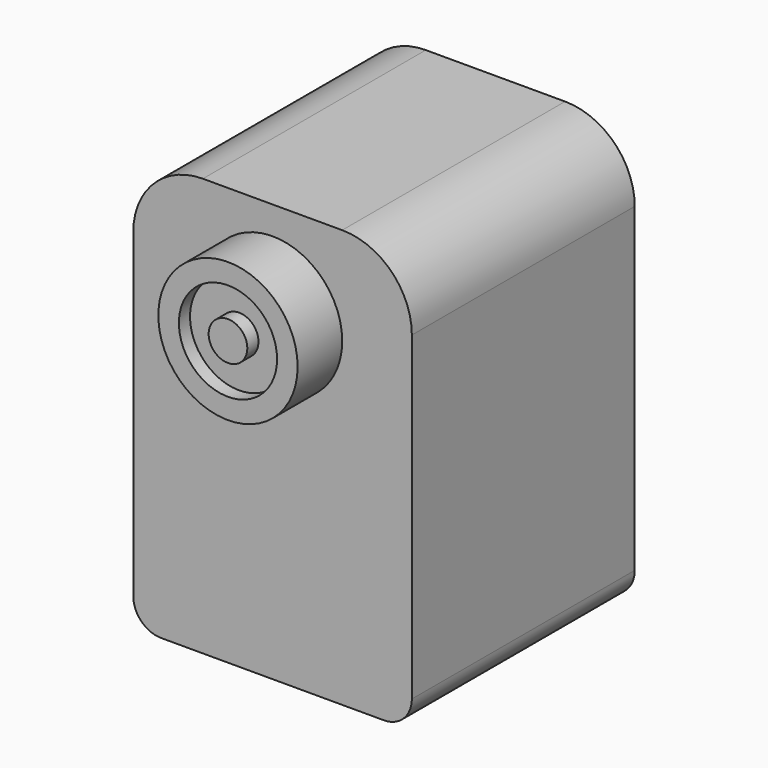
from build123d import *

# Parameters (mm, degrees)
F1_DEPTH = 25.4
F2_R     = 6.35
F2_R_2   = 4.4758717648
F3_DEPTH = 5.08
F4_DEPTH = 3.81
F5_R     = 1.7624127153
F6_DEPTH = 1.27


with BuildPart() as f1:
    # F0 (on Front) → F1 (new body)
    with BuildSketch(Plane.XZ):
        with BuildLine():
            Line((0, 31.75), (0, 2.54))
            ThreePointArc((0, 2.54), (0.7439487758, 0.7439487758), (2.54, 0))
            Line((2.54, 0), (22.86, 0))
            ThreePointArc((22.86, 0), (24.6560512242, 0.7439487758), (25.4, 2.54))
            Line((25.4, 2.54), (25.4, 31.75))
            ThreePointArc((25.4, 31.75), (23.5401280605, 36.2401280605), (19.05, 38.1))
            Line((19.05, 38.1), (6.35, 38.1))
            ThreePointArc((6.35, 38.1), (1.8598719395, 36.2401280605), (0, 31.75))
        make_face()
    extrude(amount=-F1_DEPTH)

    # F2 (on face) → F3 (join)
    with BuildSketch(Plane.XZ):
        with Locations((12.7, 29.2007308453)):
            Circle(F2_R)
        with Locations((12.7, 29.2007308453)):
            Circle(F2_R_2, mode=Mode.SUBTRACT)
    extrude(amount=F3_DEPTH)

    # F4 (add): a face of the model
    f4_faces = [f1.faces().sort_by_distance(p)[0] for p in [
        (12.7, 0, 29.2007308453),
    ]]
    extrude(f4_faces, amount=F4_DEPTH)


with BuildPart() as f6:
    # F5 (on face) → F6 (new body)
    with BuildSketch(Plane.XZ.offset(3.81)):
        with Locations((12.7, 29.2007308453)):
            Circle(F5_R)
    extrude(amount=F6_DEPTH)


solid = Compound([f1.part, f6.part])
